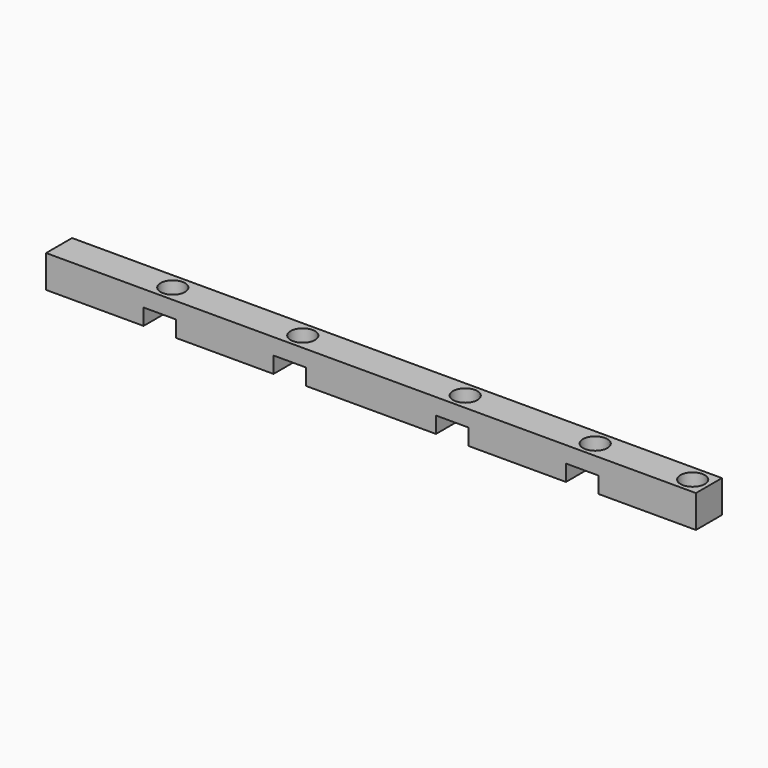
from build123d import *

# Parameters (mm, degrees)
F0_W      = 254
F0_H      = 12.7
F1_DEPTH  = 12.7
F2_W      = 12.7
F2_H      = 6.35
F3_DEPTH  = 12.701
F4_R      = 2.794
F5_DEPTH  = 6.351
F6_R      = 4.7625
F7_DEPTH  = 5.08
F8_R      = 2.794
F9_DEPTH  = 12.701
F10_R     = 4.7625
F10_R_2   = 2.794
F11_DEPTH = 5.08


with BuildPart() as f1:
    # F0 (on Top) → F1 (new body)
    with BuildSketch(Plane.XY):
        with Locations((0, -6.35)):
            Rectangle(F0_W, F0_H)
    extrude(amount=F1_DEPTH)

    # F2 (on face) → F3 (cut, through all)
    with BuildSketch(Plane.XZ.offset(12.7)):
        with Locations((82.55, 3.175)):
            Rectangle(F2_W, F2_H)
        with Locations((31.75, 3.175)):
            Rectangle(F2_W, F2_H)
        with Locations((-31.75, 3.175)):
            Rectangle(F2_W, F2_H)
        with Locations((-82.55, 3.175)):
            Rectangle(F2_W, F2_H)
    extrude(amount=-F3_DEPTH, mode=Mode.SUBTRACT)

    # F4 (on face) → F5 (cut, through all)
    with BuildSketch(Plane(origin=(0, 0, 6.35), x_dir=(1, 0, 0), z_dir=(0, 0, -1))):
        with Locations((82.55, 6.35)):
            Circle(F4_R)
        with Locations((31.75, 6.35)):
            Circle(F4_R)
        with Locations((-82.55, 6.35)):
            Circle(F4_R)
        with Locations((-31.75, 6.35)):
            Circle(F4_R)
    extrude(amount=-F5_DEPTH, mode=Mode.SUBTRACT)

    # F6 (on face) → F7 (cut)
    with BuildSketch(Plane.XY.offset(12.7)):
        with Locations((82.55, -6.35)):
            Circle(F6_R)
        with Locations((31.75, -6.35)):
            Circle(F6_R)
        with Locations((-82.55, -6.35)):
            Circle(F6_R)
        with Locations((-31.75, -6.35)):
            Circle(F6_R)
    extrude(amount=-F7_DEPTH, mode=Mode.SUBTRACT)

    # F8 (on face) → F9 (cut, through all)
    with BuildSketch(Plane(origin=(0, 0, 0), x_dir=(1, 0, 0), z_dir=(0, 0, -1))):
        with Locations((120.65, 6.35)):
            Circle(F8_R)
    extrude(amount=-F9_DEPTH, mode=Mode.SUBTRACT)

    # F10 (on face) → F11 (cut)
    with BuildSketch(Plane.XY.offset(12.7)):
        with Locations((120.65, -6.35)):
            Circle(F10_R)
        with Locations((120.65, -6.35)):
            Circle(F10_R_2, mode=Mode.SUBTRACT)
    extrude(amount=-F11_DEPTH, mode=Mode.SUBTRACT)


solid = f1.part
